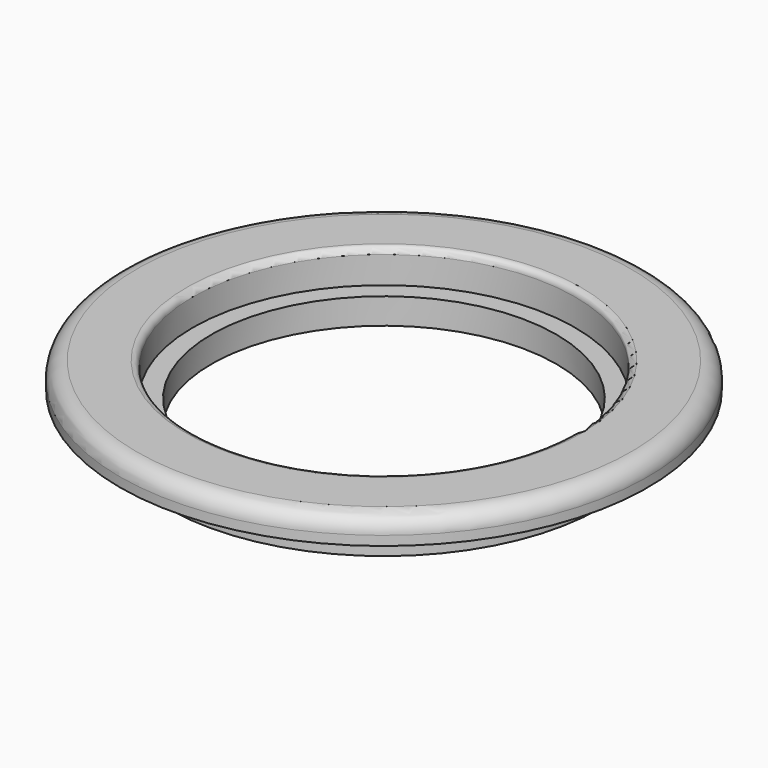
from build123d import *


with BuildPart() as f1:
    # F0 (on Right) → F1 (revolve)
    with BuildSketch(Plane.YZ):
        with BuildLine():
            Line((23.368, 0), (21.082, 0))
            Line((21.082, 0), (21.082, -3.175))
            Line((21.082, -3.175), (26.543, -3.175))
            Line((26.543, -3.175), (26.543, 0.889))
            Line((26.543, 0.889), (32.258, 0.889))
            Line((32.258, 0.889), (32.258, 2.032))
            ThreePointArc((32.258, 2.032), (31.662841, 3.468841), (30.226, 4.064))
            Line((30.226, 4.064), (24.13, 4.064))
            ThreePointArc((24.13, 4.064), (23.591185, 3.840815), (23.368, 3.302))
            Line((23.368, 3.302), (23.368, 0))
        make_face()
    revolve(axis=Axis((0, 0, 5.342678), (0, 0, 1)))


solid = f1.part
